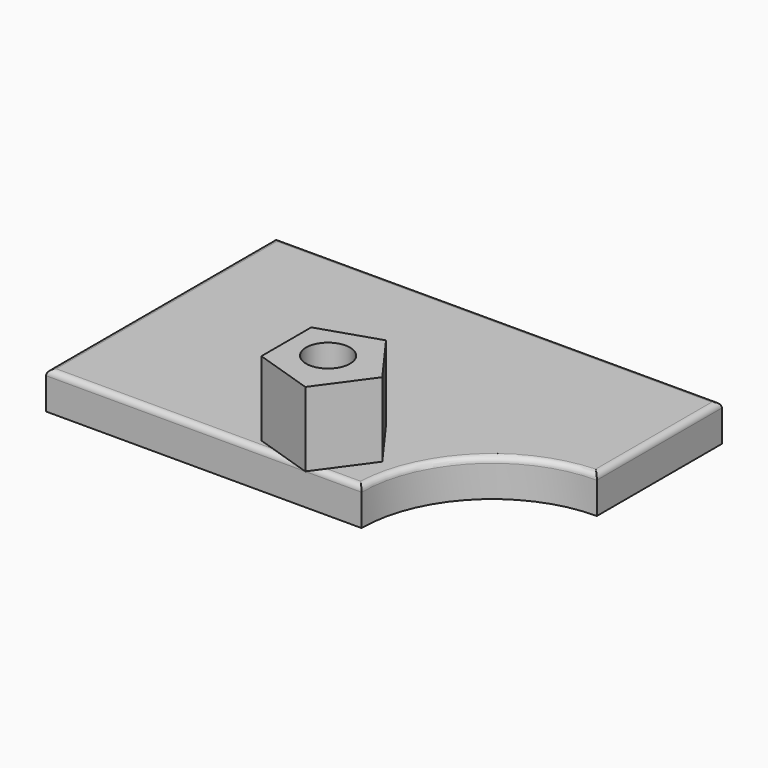
from build123d import *

# Parameters (mm, degrees)
F0_W     = 150
F0_H     = 96.499916
F1_DEPTH = 25
F3_DEPTH = 12.5
F4_R     = 1.9
F6_DEPTH = 25
F7_R     = 7.381343
F8_DEPTH = 50


with BuildPart() as f1:
    # F0 (on Top) → F1 (new body)
    with BuildSketch(Plane.XY):
        with Locations((-75, 48.249958)):
            Rectangle(F0_W, F0_H)
    extrude(amount=F1_DEPTH)

    # F2 (on face) → F3 (intersect, symmetric)
    with BuildSketch(Plane.XY.offset(25)):
        with BuildLine():
            ThreePointArc((-43.952633, 0), (-31.079205, 31.079205), (0, 43.952633))
            Line((0, 43.952633), (0, 96.499916))
            Line((0, 96.499916), (-150, 96.499916))
            Line((-150, 96.499916), (-150, 0))
            Line((-150, 0), (-43.952633, 0))
        make_face()
    extrude(amount=F3_DEPTH, both=True, mode=Mode.INTERSECT)

    # F4
    f4_edges = [f1.edges().sort_by_distance(p)[0] for p in [
        (0, 70.226275, 25),
        (-31.079205, 31.079205, 25),
        (-96.976317, 0, 25),
        (-150, 48.249958, 25),
        (-75, 96.499916, 25),
    ]]
    fillet(f4_edges, radius=F4_R)

    # F5 (on face) → F6 (join)
    with BuildSketch(Plane.XY.offset(25)):
        Polygon((-80.540083, 24.616941), (-80.540083, 3.653123), (-60.602307, -2.825054), (-48.280083, 14.135032), (-60.602307, 31.095118), align=None)
    extrude(amount=F6_DEPTH)

    # F7 (on face) → F8 (cut)
    with BuildSketch(Plane.XY.offset(50)):
        with Locations((-67.068137, 14.832954)):
            Circle(F7_R)
    extrude(amount=-F8_DEPTH, mode=Mode.SUBTRACT)


solid = f1.part
